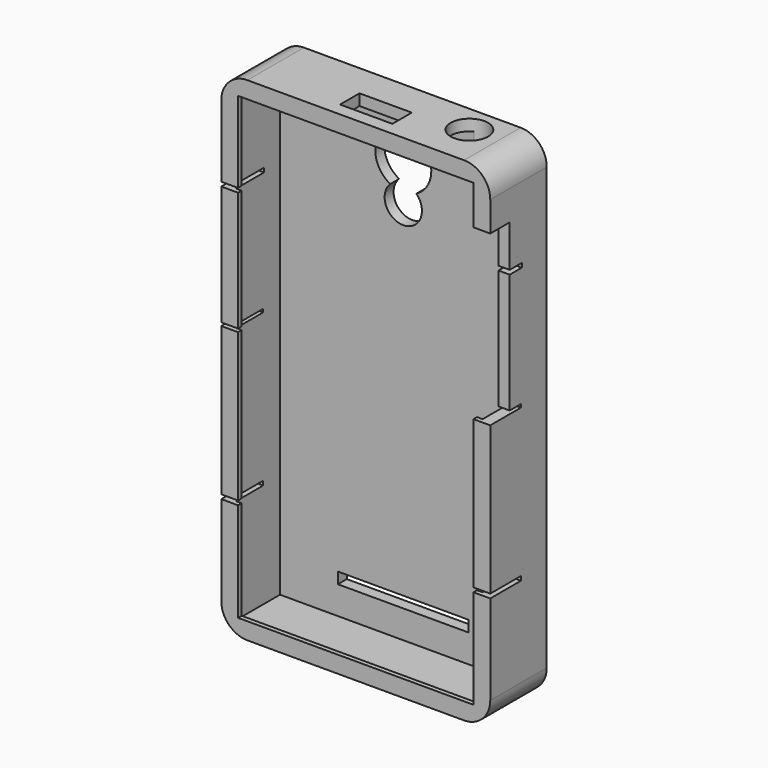
from build123d import *

# Parameters (mm, degrees)
F0_W      = 72
F0_H      = 132
F1_DEPTH  = 17.7
F2_W      = 66
F2_H      = 126
F3_DEPTH  = 14.7
F4_W      = 72
F4_H      = 132
F4_W_2    = 66
F4_H_2    = 126
F4_W_3    = 63
F4_H_3    = 123
F5_DEPTH  = 1.2
F6_R      = 7.5
F7_DEPTH  = 25
F8_DEPTH  = 25
F9_R      = 5
F10_DEPTH = 25
F11_W     = 14
F11_H     = 6.5
F12_DEPTH = 25
F13_W     = 35
F13_H     = 3
F14_DEPTH = 25
F15_W     = 6.5
F15_H     = 45
F16_DEPTH = 25
F17_R     = 5
F18_DEPTH = 25
F19_R     = 7
F20_W     = 10.5434343904
F20_H     = 1.1330954731
F20_W_2   = 10.2601605222
F20_H_2   = 0.8498206735
F20_H_3   = 1.1330917478
F21_DEPTH = 81


with BuildPart() as f1:
    # F0 (on Front) → F1 (new body)
    with BuildSketch(Plane.XZ):
        Rectangle(F0_W, F0_H)
    extrude(amount=F1_DEPTH)

    # F2 (on face) → F3 (cut, through all)
    with BuildSketch(Plane.XZ.offset(17.7)):
        Rectangle(F2_W, F2_H)
    extrude(amount=-F3_DEPTH, mode=Mode.SUBTRACT)

    # F4 (on face) → F5 (join)
    with BuildSketch(Plane.XZ.offset(17.7)):
        Rectangle(F4_W, F4_H)
        Rectangle(F4_W_2, F4_H_2, mode=Mode.SUBTRACT)
        Rectangle(F4_W_2, F4_H_2)
        Rectangle(F4_W_3, F4_H_3, mode=Mode.SUBTRACT)
    extrude(amount=F5_DEPTH)

    # F6 (on face) → F7 (cut)
    with BuildSketch(Plane.XZ.offset(3)):
        with Locations((0, 50)):
            Circle(F6_R)
    extrude(amount=-F7_DEPTH, mode=Mode.SUBTRACT)

    # F6 (on face) → F8 (cut)
    with BuildSketch(Plane.XZ.offset(3)):
        with Locations((0, 50)):
            Circle(F6_R)
    extrude(amount=-F8_DEPTH, mode=Mode.SUBTRACT)

    # F9 (on face) → F10 (cut)
    with BuildSketch(Plane.XZ.offset(3)):
        with Locations((0, 39.799913764)):
            Circle(F9_R)
    extrude(amount=-F10_DEPTH, mode=Mode.SUBTRACT)

    # F11 (on face) → F12 (cut)
    with BuildSketch(Plane.XY.offset(66)):
        with Locations((0, -12.15)):
            Rectangle(F11_W, F11_H)
    extrude(amount=-F12_DEPTH, mode=Mode.SUBTRACT)

    # F13 (on face) → F14 (cut)
    with BuildSketch(Plane.XZ.offset(3)):
        with Locations((0, -54)):
            Rectangle(F13_W, F13_H)
    extrude(amount=-F14_DEPTH, mode=Mode.SUBTRACT)

    # F15 (on face) → F16 (cut)
    with BuildSketch(Plane.YZ.offset(36)):
        with Locations((-15.65, 28.5)):
            Rectangle(F15_W, F15_H)
    extrude(amount=-F16_DEPTH, mode=Mode.SUBTRACT)

    # F17 (on face) → F18 (cut)
    with BuildSketch(Plane.XY.offset(66)):
        with Locations((21.231278264, -7.4096710059)):
            Circle(F17_R)
    extrude(amount=-F18_DEPTH, mode=Mode.SUBTRACT)

    # F19
    f19_edges = [f1.edges().sort_by_distance(p)[0] for p in [
        (-36, -9.45, 66),
        (36, -9.45, 66),
        (-36, -9.45, -66),
        (36, -9.45, -66),
    ]]
    fillet(f19_edges, radius=F19_R)

    # F20 (on face) → F21 (cut)
    with BuildSketch(Plane(origin=(-36, 0, 0), x_dir=(0, -1, 0), z_dir=(-1, 0, 0))):
        with Locations((13.6282828048, 39.2333660275)):
            Rectangle(F20_W, F20_H)
        with Locations((13.7699197389, 6.2320143916)):
            Rectangle(F20_W_2, F20_H_2)
        with Locations((13.7699197389, -34.4177186489)):
            Rectangle(F20_W_2, F20_H_3)
    extrude(amount=-F21_DEPTH, mode=Mode.SUBTRACT)


solid = f1.part
